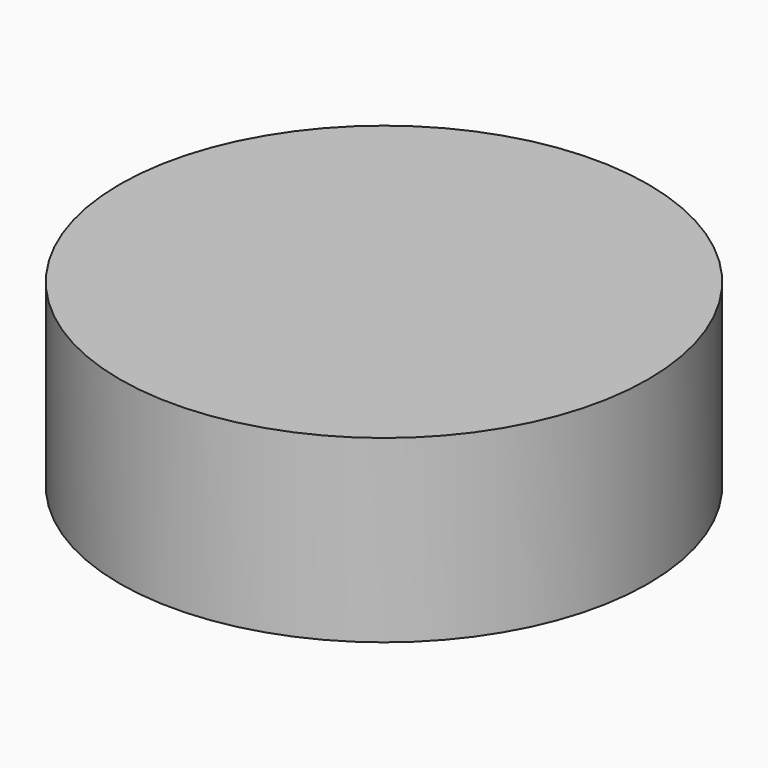
from build123d import *

# Parameters (mm, degrees)
CYLINDER_R     = 22.0218
CYLINDER_DEPTH = 15


with BuildPart() as part:
    # Cylinder → Cylinder (new body)
    with BuildSketch(Plane.XY.offset(-2.5)):
        Circle(CYLINDER_R)
    extrude(amount=CYLINDER_DEPTH)


solid = part.part
